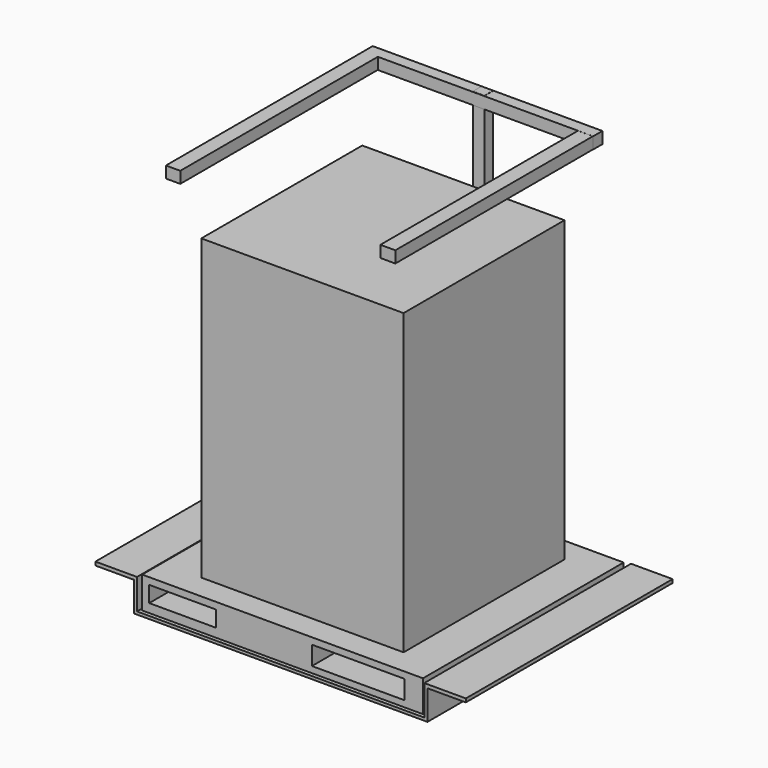
from build123d import *

# Parameters (mm, degrees)
F0_W      = 1284.835703671
F0_H      = 12.4089680612
F1_DEPTH  = 571.5
F3_DEPTH  = 1143
F6_W      = 51.6073703766
F6_H      = 47.9507148266
F7_DEPTH  = 1778
F8_W      = 51.4650344849
F8_H      = 51.4650344849
F9_DEPTH  = 508
F10_W     = 63.6484324932
F10_H     = 50.9061813354
F10_W_2   = 66.0638809204
F10_H_2   = 51.4912605286
F11_DEPTH = 1092.2
F12_W     = 1241.9298887253
F12_H     = 1109.2171669006
F13_DEPTH = 139.7
F14_W     = 296.2205260992
F14_H     = 70.9949955344
F14_W_2   = 408.8332653046
F14_H_2   = 83.2355730236
F15_DEPTH = 1127.2688971291
F16_W     = 894.5828676224
F16_H     = 889.6675109863
F17_DEPTH = 1320.8


with BuildPart() as f1:
    # F0 (on Front) → F1 (new body, symmetric)
    with BuildSketch(Plane.XZ):
        with Locations((576.5165500343, -47.0742117614)):
            Rectangle(F0_W, F0_H)
    extrude(amount=F1_DEPTH, both=True)

    # F2 (on face) → F3 (join)
    with BuildSketch(Plane.XZ.offset(571.5)):
        Polygon((-65.9013018012, -53.278695792), (-65.9013018012, -40.8697277308), (-65.9013018012, 93.3853983879), (-249.7984468937, 93.3853983879), (-249.7984468937, 77.8451710939), (-80.1585838199, 77.8451710939), (-80.1585838199, -53.278695792), align=None)
    extrude(amount=-F3_DEPTH)

    # F5: F1 across plane


with BuildPart() as f1_1:
    add(f1.part)
    add(f1.part.mirror(Plane(origin=(569.387909025, 0, -17.3954870552), x_dir=(0, -1, 0), z_dir=(-1, 0, 0))))

    # F6 (on face) → F7 (join)
    with BuildSketch(Plane.XY.offset(-40.8697277308)):
        with Locations((569.3829655647, 546.9712764025)):
            Rectangle(F6_W, F6_H)
    extrude(amount=F7_DEPTH)

    # F8 (on mid) → F9 (join, symmetric)
    with BuildSketch(Plane(origin=(569.387909025, 0, 0), x_dir=(0, -1, 0), z_dir=(-1, 0, 0))):
        with Locations((-546.9267964363, 1710.9147310257)):
            Rectangle(F8_W, F8_H)
    extrude(amount=F9_DEPTH, both=True)

    # F10 (on face) → F11 (join)
    with BuildSketch(Plane.XZ.offset(-521.1942791939)):
        with Locations((93.3082550764, 1711.1941576004)):
            Rectangle(F10_W, F10_H)
        with Locations((1043.2767868042, 1710.7145786285)):
            Rectangle(F10_W_2, F10_H_2)
    extrude(amount=F11_DEPTH)

    # F12 (on face) → F13 (join)
    with BuildSketch(Plane.XY.offset(-40.8697277308)):
        with Locations((564.4726157188, 0)):
            Rectangle(F12_W, F12_H)
    extrude(amount=F13_DEPTH)

    # F14 (on face) → F15 (cut, through all)
    with BuildSketch(Plane.XZ.offset(554.6085834503)):
        with Locations((122.6859763265, 33.3608575165)):
            Rectangle(F14_W, F14_H)
        with Locations((898.7348079681, 28.4646395594)):
            Rectangle(F14_W_2, F14_H_2)
    extrude(amount=-F15_DEPTH, mode=Mode.SUBTRACT)

    # F16 (on face) → F17 (join)
    with BuildSketch(Plane.XY.offset(98.8302722692)):
        with Locations((564.4726157188, 0)):
            Rectangle(F16_W, F16_H)
    extrude(amount=F17_DEPTH)


solid = f1_1.part
